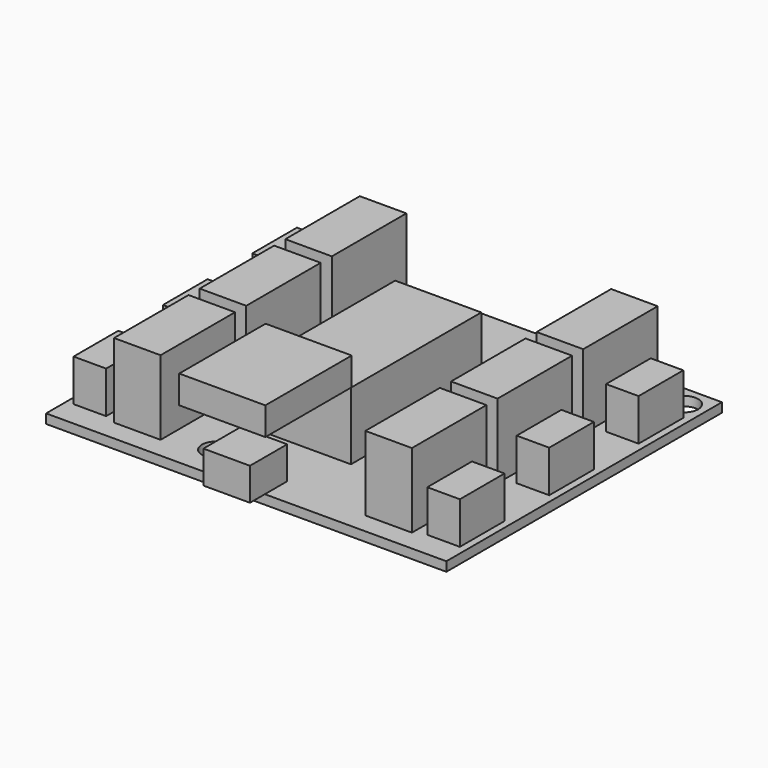
from build123d import *

# Parameters (mm, degrees)
SKETCH_W     = 86
SKETCH_H     = 74
SKETCH_R     = 3
PAD_DEPTH    = 2
SKETCH001_W  = 7
SKETCH001_H  = 12
PAD001_DEPTH = 9
SKETCH002_W  = 18.5
SKETCH002_H  = 35
PAD002_DEPTH = 14.5
SKETCH003_W  = 18.5
SKETCH003_H  = 0.2
PAD003_DEPTH = 6
SKETCH004_W  = 18.5
SKETCH004_H  = 6
PAD004_DEPTH = 23
SKETCH005_W  = 10
SKETCH005_H  = 20
PAD005_DEPTH = 16
SKETCH006_W  = 10
SKETCH006_H  = 10
PAD006_DEPTH = 7


with BuildPart() as part:
    # Sketch → Pad (new body)
    with BuildSketch(Plane.XY):
        Rectangle(SKETCH_W, SKETCH_H)
        with Locations((-38.5, 32.5)):
            Circle(SKETCH_R, mode=Mode.SUBTRACT)
        with Locations((38.5, 32.5)):
            Circle(SKETCH_R, mode=Mode.SUBTRACT)
        with Locations((-12.5, -29.5)):
            Circle(SKETCH_R, mode=Mode.SUBTRACT)
    extrude(amount=PAD_DEPTH)

    # Sketch001 → Pad001 (new body)
    with BuildSketch(Plane.XY.offset(2)):
        with Locations((-38, 22.5)):
            Rectangle(SKETCH001_W, SKETCH001_H)
        with Locations((-38, -1.5)):
            Rectangle(SKETCH001_W, SKETCH001_H)
        with Locations((-38, -25.5)):
            Rectangle(SKETCH001_W, SKETCH001_H)
    pad001 = extrude(amount=PAD001_DEPTH)

    # Mirrored: Pad001 across Sketch001 V_Axis
    add(pad001.mirror(Plane(origin=(0, 0, 2), x_dir=(0, 0, 1), z_dir=(1, 0, 0))))

    # Sketch002 → Pad002 (new body)
    with BuildSketch(Plane.XY.offset(2)):
        with Locations((-0.75, -2)):
            Rectangle(SKETCH002_W, SKETCH002_H)
    extrude(amount=PAD002_DEPTH)

    # Sketch003 → Pad003 (new body)
    with BuildSketch(Plane.XY.offset(16.5)):
        with Locations((-0.75, -19.4)):
            Rectangle(SKETCH003_W, SKETCH003_H)
    extrude(amount=PAD003_DEPTH)

    # Sketch004 → Pad004 (new body)
    with BuildSketch(Plane.XZ.offset(19.5)):
        with Locations((-0.75, 19.5)):
            Rectangle(SKETCH004_W, SKETCH004_H)
    extrude(amount=PAD004_DEPTH)

    # Sketch005 → Pad005 (new body)
    with BuildSketch(Plane.XY.offset(2)):
        with Locations((-27, 23.5)):
            Rectangle(SKETCH005_W, SKETCH005_H)
        with Locations((-27, 0.5)):
            Rectangle(SKETCH005_W, SKETCH005_H)
        with Locations((-27, -22.5)):
            Rectangle(SKETCH005_W, SKETCH005_H)
    pad005 = extrude(amount=PAD005_DEPTH)

    # Mirrored001: Pad005 across Sketch005 V_Axis
    add(pad005.mirror(Plane(origin=(0, 0, 2), x_dir=(0, 0, 1), z_dir=(1, 0, 0))))

    # Sketch006 → Pad006 (new body)
    with BuildSketch(Plane.XY.offset(2)):
        with Locations((-1, -36)):
            Rectangle(SKETCH006_W, SKETCH006_H)
    extrude(amount=PAD006_DEPTH)


solid = part.part
